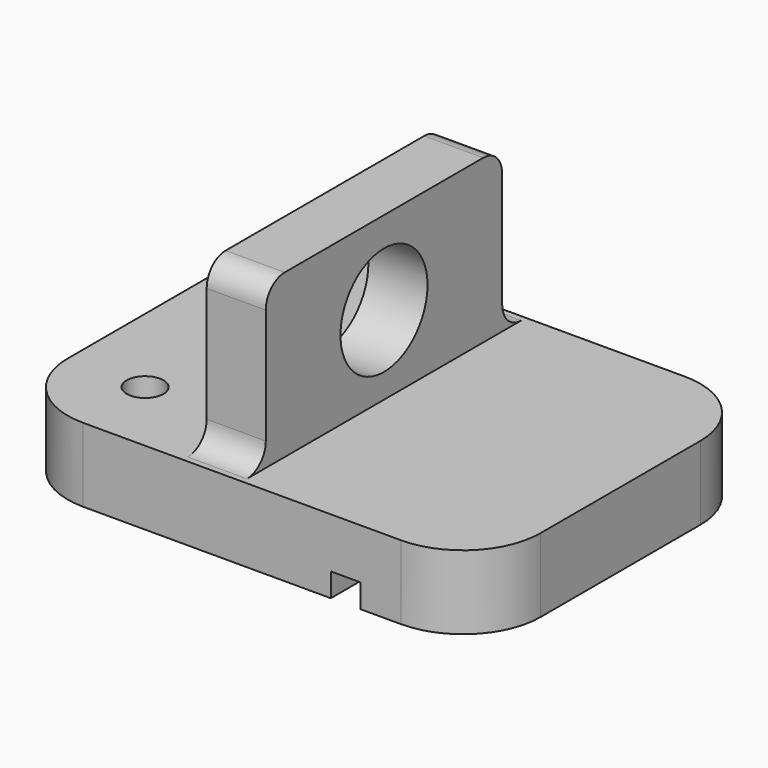
from build123d import *

# Parameters (mm, degrees)
F0_W      = 101.6
F0_H      = 76.2
F1_DEPTH  = 15.875
F2_R      = 3.9624
F3_DEPTH  = 15.875
F4_R      = 16.637
F5_W      = 12.7
F5_H      = 63.5
F6_DEPTH  = 50.8
F7_R      = 5.08
F8_R      = 11.688691
F9_DEPTH  = 25.4
F10_W     = 6.35
F10_H     = 5.08
F11_DEPTH = 101.6


with BuildPart() as f1:
    # F0 (on Top) → F1 (new body)
    with BuildSketch(Plane.XY):
        with Locations((1.375794, 10.99218)):
            Rectangle(F0_W, F0_H)
    extrude(amount=F1_DEPTH)

    # F2 (on face) → F3 (cut)
    with BuildSketch(Plane.XY.offset(15.875)):
        with Locations((-32.787206, 32.45518)):
            Circle(F2_R)
        with Locations((-32.787206, -10.47082)):
            Circle(F2_R)
    extrude(amount=-F3_DEPTH, mode=Mode.SUBTRACT)

    # F4
    f4_edges = [f1.edges().sort_by_distance(p)[0] for p in [
        (-49.424206, 49.09218, 7.9375),
        (52.175794, 49.09218, 7.9375),
        (52.175794, -27.10782, 7.9375),
        (-49.424206, -27.10782, 7.9375),
    ]]
    fillet(f4_edges, radius=F4_R)

    # F5 (on Top) → F6 (join)
    with BuildSketch(Plane.XY):
        with Locations((-4.974206, 10.99218)):
            Rectangle(F5_W, F5_H)
    extrude(amount=F6_DEPTH)

    # F7
    f7_edges = [f1.edges().sort_by_distance(p)[0] for p in [
        (-4.974206, 42.74218, 50.8),
        (-4.974206, -20.75782, 50.8),
        (-4.974206, -20.75782, 15.875),
        (-4.974206, 42.74218, 15.875),
    ]]
    fillet(f7_edges, radius=F7_R)

    # F8 (on face) → F9 (cut)
    with BuildSketch(Plane.YZ.offset(1.375794)):
        with Locations((10.99218, 32.816)):
            Circle(F8_R)
    extrude(amount=-F9_DEPTH, mode=Mode.SUBTRACT)

    # F10 (on face) → F11 (cut)
    with BuildSketch(Plane(origin=(0, 49.09218, 0), x_dir=(-1, 0, 0), z_dir=(0, 1, 0))):
        with Locations((-23.600794, 2.54)):
            Rectangle(F10_W, F10_H)
    extrude(amount=-F11_DEPTH, mode=Mode.SUBTRACT)


solid = f1.part
